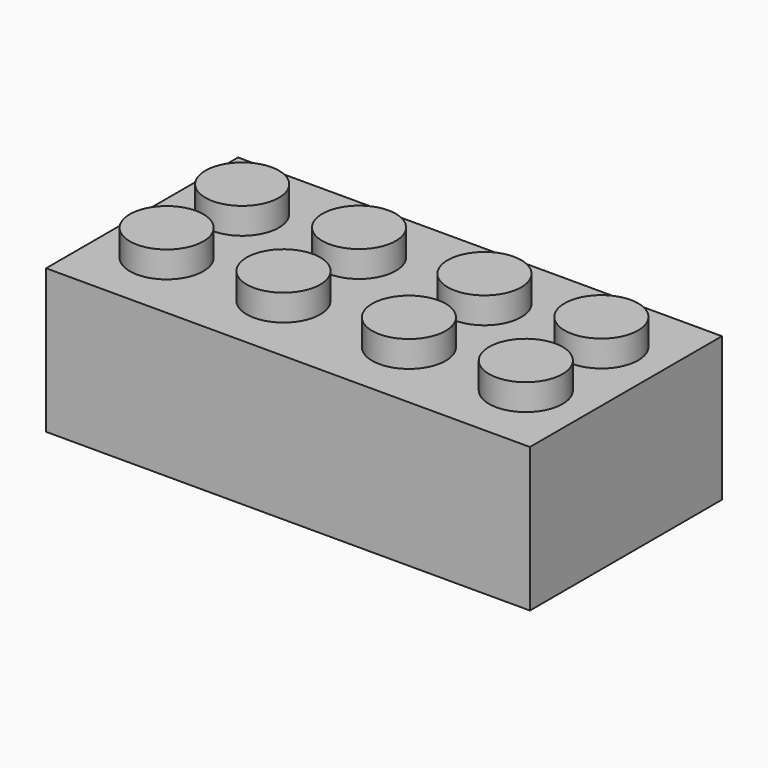
from build123d import *

# Parameters (mm, degrees)
F0_W     = 31.75
F0_H     = 15.748
F1_DEPTH = 4.7244
F2_R     = 2.413
F3_DEPTH = 1.7272


with BuildPart() as f1:
    # F0 (on Top) → F1 (new body, symmetric)
    with BuildSketch(Plane.XY):
        Rectangle(F0_W, F0_H)
    extrude(amount=F1_DEPTH, both=True)

    # F2 (on face) → F3 (join)
    with BuildSketch(Plane.XY.offset(4.7244)):
        with Locations((-11.7856, 3.0988)):
            Circle(F2_R)
        with Locations((4.1148, 3.0988)):
            Circle(F2_R)
        with Locations((11.7856, 3.0988)):
            Circle(F2_R)
        with Locations((-11.7856, -3.0988)):
            Circle(F2_R)
        with Locations((4.1148, -3.0988)):
            Circle(F2_R)
        with Locations((11.7856, -3.0988)):
            Circle(F2_R)
        with Locations((-4.1148, -3.0988)):
            Circle(F2_R)
        with Locations((-4.1148, 3.0988)):
            Circle(F2_R)
    extrude(amount=F3_DEPTH)


solid = f1.part
